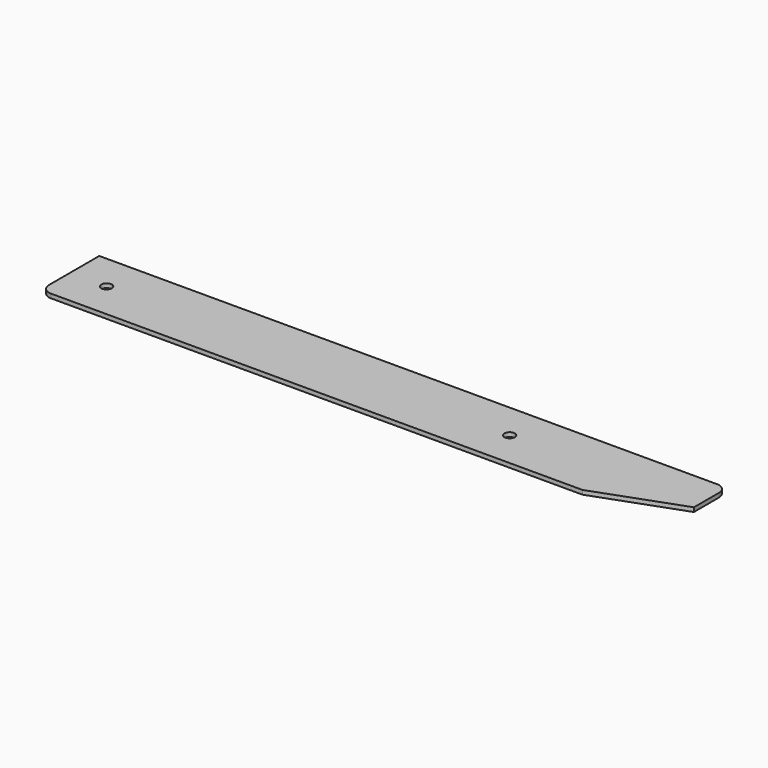
from build123d import *

# Parameters (mm, degrees)
F0_W     = 300
F0_H     = 35
F0_R     = 2.5
F1_DEPTH = 2
F2_R     = 5
F3_SIZE2 = 41.2121612918
F3_SIZE  = 15


with BuildPart() as f1:
    # F0 (on Top) → F1 (new body)
    with BuildSketch(Plane.XY):
        with Locations((150, 17.5)):
            Rectangle(F0_W, F0_H)
        with Locations((17.5, 17.5)):
            Circle(F0_R, mode=Mode.SUBTRACT)
        with Locations((210, 17.5)):
            Circle(F0_R, mode=Mode.SUBTRACT)
    extrude(amount=F1_DEPTH)

    # F2
    f2_edges = [f1.edges().sort_by_distance(p)[0] for p in [
        (0, 0, 1),
        (300, 35, 1),
    ]]
    fillet(f2_edges, radius=F2_R)

    # F3
    f3_edges = [f1.edges().sort_by_distance(p)[0] for p in [
        (300, 0, 1),
    ]]
    f3_side = f1.faces().sort_by_distance((300, 15, 1))[0]
    chamfer(f3_edges, length=F3_SIZE, length2=F3_SIZE2, reference=f3_side)


solid = f1.part
